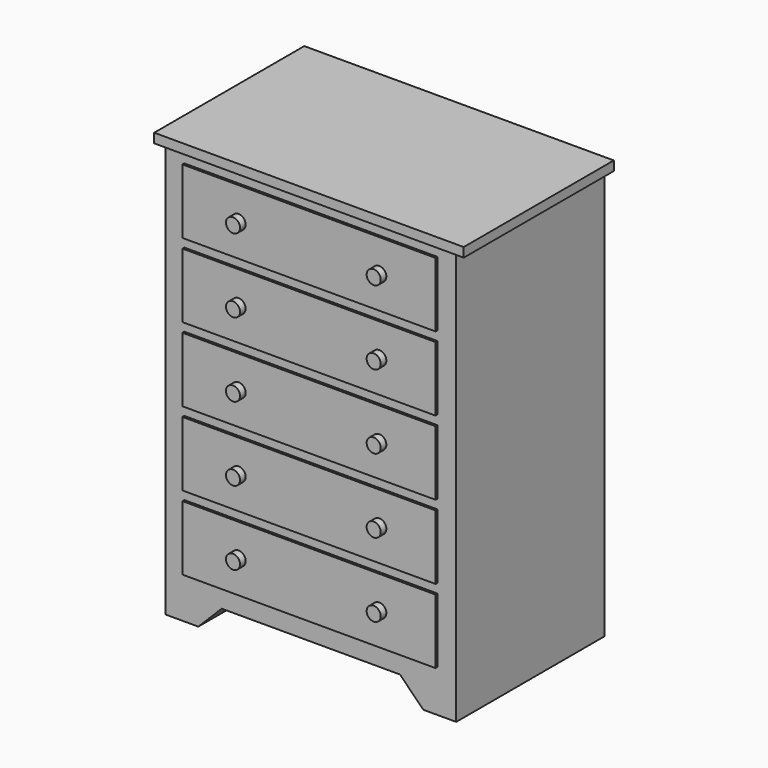
from build123d import *

# Parameters (mm, degrees)
F0_W     = 838.2
F0_H     = 508
F1_DEPTH = 1143
F2_W     = 25.4
F2_H     = 1117.6
F3_DEPTH = 508.001
F2_W_2   = 685.8
F2_H_2   = 175.26
F4_DEPTH = 6.35
F2_R     = 19.05
F5_DEPTH = 19.05
F6_W     = 622.3
F6_H     = 349.25
F7_DEPTH = 1066.8


with BuildPart() as f1:
    # F0 (on Top) → F1 (new body)
    with BuildSketch(Plane.XY):
        Rectangle(F0_W, F0_H)
    extrude(amount=F1_DEPTH)

    # F2 (on face) → F3 (cut, through all)
    with BuildSketch(Plane.XZ.offset(254)):
        with Locations((-406.4, 558.8)):
            Rectangle(F2_W, F2_H)
        with Locations((406.4, 558.8)):
            Rectangle(F2_W, F2_H)
        Polygon((-241.3, 63.5), (-304.8, 0), (304.8, 0), (241.3, 63.5), align=None)
    extrude(amount=-F3_DEPTH, mode=Mode.SUBTRACT)

    # F2 (on face) → F4 (cut)
    with BuildSketch(Plane.XZ.offset(254)):
        Polygon((-393.7, 1117.6), (-393.7, 0), (-304.8, 0), (-241.3, 63.5), (241.3, 63.5), (304.8, 0), (393.7, 0), (393.7, 1117.6), align=None)
        with Locations((0, 201.93)):
            Rectangle(F2_W_2, F2_H_2, mode=Mode.SUBTRACT)
        with Locations((0, 402.59)):
            Rectangle(F2_W_2, F2_H_2, mode=Mode.SUBTRACT)
        with Locations((0, 603.25)):
            Rectangle(F2_W_2, F2_H_2, mode=Mode.SUBTRACT)
        with Locations((0, 803.91)):
            Rectangle(F2_W_2, F2_H_2, mode=Mode.SUBTRACT)
        with Locations((0, 1004.57)):
            Rectangle(F2_W_2, F2_H_2, mode=Mode.SUBTRACT)
    extrude(amount=-F4_DEPTH, mode=Mode.SUBTRACT)

    # F2 (on face) → F5 (join)
    with BuildSketch(Plane.XZ.offset(254)):
        with Locations((-190.5, 1004.57)):
            Circle(F2_R)
        with Locations((190.5, 1004.57)):
            Circle(F2_R)
        with Locations((190.5, 804.0116)):
            Circle(F2_R)
        with Locations((-190.5, 804.0116)):
            Circle(F2_R)
        with Locations((-190.5, 603.4532)):
            Circle(F2_R)
        with Locations((190.5, 603.4532)):
            Circle(F2_R)
        with Locations((190.5, 402.8948)):
            Circle(F2_R)
        with Locations((-190.5, 402.8948)):
            Circle(F2_R)
        with Locations((-190.5, 202.3364)):
            Circle(F2_R)
        with Locations((190.5, 202.3364)):
            Circle(F2_R)
    extrude(amount=F5_DEPTH)

    # F6 (on face) → F7 (cut)
    with BuildSketch(Plane(origin=(0, 0, 0), x_dir=(1, 0, 0), z_dir=(0, 0, -1))):
        with Locations((6.35, -3.175)):
            Rectangle(F6_W, F6_H)
    extrude(amount=-F7_DEPTH, mode=Mode.SUBTRACT)


solid = f1.part
